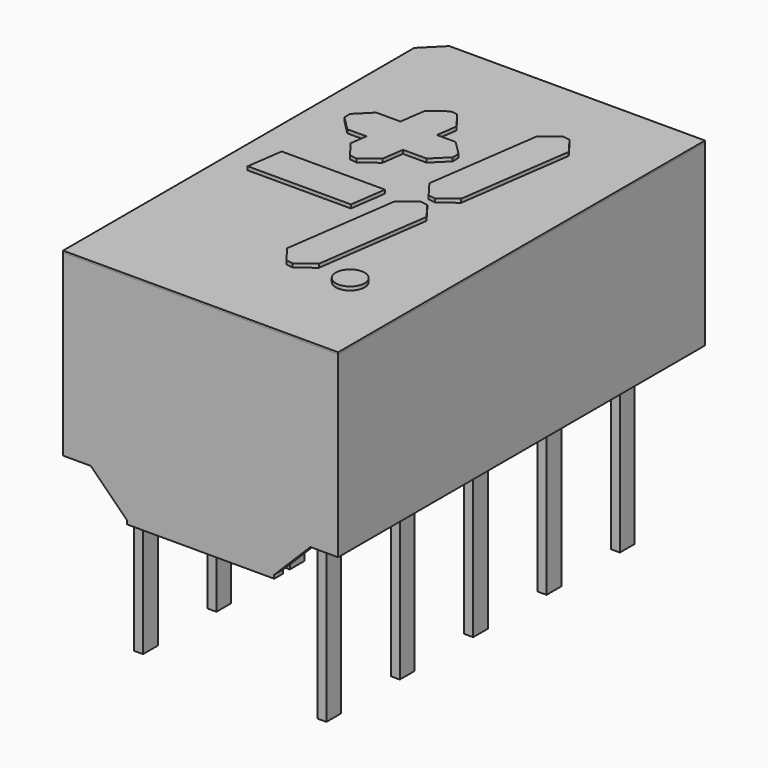
from build123d import *

# Parameters (mm, degrees)
BOX003_W                  = 0.25
BOX003_H                  = 1.5
BOX003_DEPTH              = 1.5
BOX003_ROLL_ANGLE         = 45
BOX002_W                  = 0.25
BOX002_H                  = 0.51
BOX002_DEPTH              = 6
BOX005_W                  = 0.25
BOX005_H                  = 1.5
BOX005_DEPTH              = 1.5
BOX005_ROLL_ANGLE         = 45
BOX004_W                  = 0.25
BOX004_H                  = 0.51
BOX004_DEPTH              = 6
BOX007_W                  = 0.25
BOX007_H                  = 1.5
BOX007_DEPTH              = 1.5
BOX007_ROLL_ANGLE         = 45
BOX006_W                  = 0.25
BOX006_H                  = 0.51
BOX006_DEPTH              = 6
BOX009_W                  = 0.25
BOX009_H                  = 1.5
BOX009_DEPTH              = 1.5
BOX009_ROLL_ANGLE         = 45
BOX008_W                  = 0.25
BOX008_H                  = 0.51
BOX008_DEPTH              = 6
BOX011_W                  = 0.25
BOX011_H                  = 1.5
BOX011_DEPTH              = 1.5
BOX011_ROLL_ANGLE         = 45
BOX010_W                  = 0.25
BOX010_H                  = 0.51
BOX010_DEPTH              = 6
BOX021_W                  = 0.25
BOX021_H                  = 1.5
BOX021_DEPTH              = 1.5
BOX021_ROLL_ANGLE         = 45
BOX020_W                  = 0.25
BOX020_H                  = 0.51
BOX020_DEPTH              = 6
BOX029_W                  = 0.25
BOX029_H                  = 1.5
BOX029_DEPTH              = 1.5
BOX029_ROLL_ANGLE         = 45
BOX028_W                  = 0.25
BOX028_H                  = 0.51
BOX028_DEPTH              = 6
BOX023_W                  = 0.25
BOX023_H                  = 1.5
BOX023_DEPTH              = 1.5
BOX023_ROLL_ANGLE         = 45
BOX022_W                  = 0.25
BOX022_H                  = 0.51
BOX022_DEPTH              = 6
BOX025_W                  = 0.25
BOX025_H                  = 1.5
BOX025_DEPTH              = 1.5
BOX025_ROLL_ANGLE         = 45
BOX024_W                  = 0.25
BOX024_H                  = 0.51
BOX024_DEPTH              = 6
BOX027_W                  = 0.25
BOX027_H                  = 1.5
BOX027_DEPTH              = 1.5
BOX027_ROLL_ANGLE         = 45
BOX026_W                  = 0.25
BOX026_H                  = 0.51
BOX026_DEPTH              = 6
BOX042_W                  = 2
BOX042_H                  = 1
BOX042_DEPTH              = 10
BOX042_PLACEMENT_ANGLE    = 45
BOX041_W                  = 3
BOX041_H                  = 22
BOX041_DEPTH              = 1.1
CHAMFER016_SIZE           = 1
BOX_W                     = 3
BOX_H                     = 22
BOX_DEPTH                 = 1.1
CHAMFER_SIZE              = 1
BOX001_W                  = 20
BOX001_H                  = 12
BOX001_DEPTH              = 1.1
SKETCH_W                  = 7.62
SKETCH_H                  = 12.7
PAD_DEPTH                 = 6.09
BOX032_W                  = 3
BOX032_H                  = 1
BOX032_DEPTH              = 2
BOX032_PLACEMENT_ANGLE    = -8
CHAMFER019_SIZE           = 0.4
BOX033_W                  = 4
BOX033_H                  = 1
BOX033_DEPTH              = 2
BOX033_PLACEMENT_ANGLE    = -8
CHAMFER006_SIZE           = 0.4
CHAMFER007_SIZE           = 0.4
CHAMFER020_SIZE           = 0.4
BOX043_W                  = 4
BOX043_H                  = 1
BOX043_DEPTH              = 2
BOX043_PLACEMENT_ANGLE    = -8
CHAMFER017_SIZE           = 0.4
CHAMFER018_SIZE           = 0.4
CHAMFER021_SIZE           = 0.4
BOX035_W                  = 3
BOX035_H                  = 3
BOX035_DEPTH              = 2
BOX035_PLACEMENT_ANGLE    = -8
BOX036_W                  = 3
BOX036_H                  = 1
BOX036_DEPTH              = 2
BOX036_PLACEMENT_ANGLE    = -8
BOX034_W                  = 1
BOX034_H                  = 4
BOX034_DEPTH              = 2
CYLINDER016_R             = 0.4
CYLINDER016_DEPTH         = 2
BOX037_W                  = 1
BOX037_H                  = 3
BOX037_DEPTH              = 2
CHAMFER012_SIZE           = 0.4
CHAMFER013_SIZE           = 0.4
CHAMFER014_SIZE           = 0.4
CHAMFER015_SIZE           = 0.4
FUSION014_PLACEMENT_ANGLE = 90
BOX045_W                  = 2
BOX045_H                  = 1
BOX045_DEPTH              = 10
BOX045_PLACEMENT_ANGLE    = 45
BOX044_W                  = 7.62
BOX044_H                  = 12.7
BOX044_DEPTH              = 0.05


with BuildPart() as kub003:
    # Box003 → Box003 (new body)
    with BuildSketch(Plane.XY):
        with Locations((0.125, 0.75)):
            Rectangle(BOX003_W, BOX003_H)
    extrude(amount=BOX003_DEPTH)


with BuildPart() as kub003_1:
    # Box003 roll: moved
    add(kub003.part.rotate(Axis((0, 0, 0), (1, 0, 0)), BOX003_ROLL_ANGLE))


with BuildPart() as kub003_2:
    # Box003 placement: moved
    add(kub003_1.part.moved(Location((-0.12, 0, 0.3))))


with BuildPart() as leg001:
    # Box002 → Box002 (new body)
    with BuildSketch(Plane(origin=(-0.12, -0.25, -3.7), x_dir=(1, 0, 0), z_dir=(0, 0, 1))):
        with Locations((0.125, 0.255)):
            Rectangle(BOX002_W, BOX002_H)
    extrude(amount=BOX002_DEPTH)

    # Fusion: union Kub003
    add(kub003_2.part)


with BuildPart() as kub005:
    # Box005 → Box005 (new body)
    with BuildSketch(Plane.XY):
        with Locations((0.125, 0.75)):
            Rectangle(BOX005_W, BOX005_H)
    extrude(amount=BOX005_DEPTH)


with BuildPart() as kub005_1:
    # Box005 roll: moved
    add(kub005.part.rotate(Axis((0, 0, 0), (1, 0, 0)), BOX005_ROLL_ANGLE))


with BuildPart() as kub005_2:
    # Box005 placement: moved
    add(kub005_1.part.moved(Location((-0.12, 0, 0.3))))


with BuildPart() as leg002:
    # Box004 → Box004 (new body)
    with BuildSketch(Plane(origin=(-0.12, -0.2505, -3.7), x_dir=(1, 0, 0), z_dir=(0, 0, 1))):
        with Locations((0.125, 0.255)):
            Rectangle(BOX004_W, BOX004_H)
    extrude(amount=BOX004_DEPTH)

    # Fusion001: union Kub005
    add(kub005_2.part)


with BuildPart() as leg002_1:
    # Fusion001 placement: moved
    add(leg002.part.moved(Location((0, -2.54, 0))))


with BuildPart() as kub007:
    # Box007 → Box007 (new body)
    with BuildSketch(Plane.XY):
        with Locations((0.125, 0.75)):
            Rectangle(BOX007_W, BOX007_H)
    extrude(amount=BOX007_DEPTH)


with BuildPart() as kub007_1:
    # Box007 roll: moved
    add(kub007.part.rotate(Axis((0, 0, 0), (1, 0, 0)), BOX007_ROLL_ANGLE))


with BuildPart() as kub007_2:
    # Box007 placement: moved
    add(kub007_1.part.moved(Location((-0.12, 0, 0.3))))


with BuildPart() as leg003:
    # Box006 → Box006 (new body)
    with BuildSketch(Plane(origin=(-0.12, -0.2505, -3.7), x_dir=(1, 0, 0), z_dir=(0, 0, 1))):
        with Locations((0.125, 0.255)):
            Rectangle(BOX006_W, BOX006_H)
    extrude(amount=BOX006_DEPTH)

    # Fusion002: union Kub007
    add(kub007_2.part)


with BuildPart() as leg003_1:
    # Fusion002 placement: moved
    add(leg003.part.moved(Location((0, -5.08, 0))))


with BuildPart() as kub009:
    # Box009 → Box009 (new body)
    with BuildSketch(Plane.XY):
        with Locations((0.125, 0.75)):
            Rectangle(BOX009_W, BOX009_H)
    extrude(amount=BOX009_DEPTH)


with BuildPart() as kub009_1:
    # Box009 roll: moved
    add(kub009.part.rotate(Axis((0, 0, 0), (1, 0, 0)), BOX009_ROLL_ANGLE))


with BuildPart() as kub009_2:
    # Box009 placement: moved
    add(kub009_1.part.moved(Location((-0.12, 0, 0.3))))


with BuildPart() as leg004:
    # Box008 → Box008 (new body)
    with BuildSketch(Plane(origin=(-0.12, -0.2505, -3.7), x_dir=(1, 0, 0), z_dir=(0, 0, 1))):
        with Locations((0.125, 0.255)):
            Rectangle(BOX008_W, BOX008_H)
    extrude(amount=BOX008_DEPTH)

    # Fusion003: union Kub009
    add(kub009_2.part)


with BuildPart() as leg004_1:
    # Fusion003 placement: moved
    add(leg004.part.moved(Location((0, -7.62, 0))))


with BuildPart() as kub011:
    # Box011 → Box011 (new body)
    with BuildSketch(Plane.XY):
        with Locations((0.125, 0.75)):
            Rectangle(BOX011_W, BOX011_H)
    extrude(amount=BOX011_DEPTH)


with BuildPart() as kub011_1:
    # Box011 roll: moved
    add(kub011.part.rotate(Axis((0, 0, 0), (1, 0, 0)), BOX011_ROLL_ANGLE))


with BuildPart() as kub011_2:
    # Box011 placement: moved
    add(kub011_1.part.moved(Location((-0.12, 0, 0.3))))


with BuildPart() as leg005:
    # Box010 → Box010 (new body)
    with BuildSketch(Plane(origin=(-0.12, -0.2505, -3.7), x_dir=(1, 0, 0), z_dir=(0, 0, 1))):
        with Locations((0.125, 0.255)):
            Rectangle(BOX010_W, BOX010_H)
    extrude(amount=BOX010_DEPTH)

    # Fusion004: union Kub011
    add(kub011_2.part)


with BuildPart() as leg005_1:
    # Fusion004 placement: moved
    add(leg005.part.moved(Location((0, -10.16, 0))))


with BuildPart() as kub021:
    # Box021 → Box021 (new body)
    with BuildSketch(Plane.XY):
        with Locations((0.125, 0.75)):
            Rectangle(BOX021_W, BOX021_H)
    extrude(amount=BOX021_DEPTH)


with BuildPart() as kub021_1:
    # Box021 roll: moved
    add(kub021.part.rotate(Axis((0, 0, 0), (1, 0, 0)), BOX021_ROLL_ANGLE))


with BuildPart() as kub021_2:
    # Box021 placement: moved
    add(kub021_1.part.moved(Location((-0.12, 0, 0.3))))


with BuildPart() as leg006:
    # Box020 → Box020 (new body)
    with BuildSketch(Plane(origin=(-0.12, -0.2505, -3.7), x_dir=(1, 0, 0), z_dir=(0, 0, 1))):
        with Locations((0.125, 0.255)):
            Rectangle(BOX020_W, BOX020_H)
    extrude(amount=BOX020_DEPTH)

    # Fusion009: union Kub021
    add(kub021_2.part)


with BuildPart() as leg006_1:
    # Fusion009 placement: moved
    add(leg006.part.moved(Location((5.08, -10.16, 0))))


with BuildPart() as kub029:
    # Box029 → Box029 (new body)
    with BuildSketch(Plane.XY):
        with Locations((0.125, 0.75)):
            Rectangle(BOX029_W, BOX029_H)
    extrude(amount=BOX029_DEPTH)


with BuildPart() as kub029_1:
    # Box029 roll: moved
    add(kub029.part.rotate(Axis((0, 0, 0), (1, 0, 0)), BOX029_ROLL_ANGLE))


with BuildPart() as kub029_2:
    # Box029 placement: moved
    add(kub029_1.part.moved(Location((-0.12, 0, 0.3))))


with BuildPart() as leg010:
    # Box028 → Box028 (new body)
    with BuildSketch(Plane(origin=(-0.12, -0.2505, -3.7), x_dir=(1, 0, 0), z_dir=(0, 0, 1))):
        with Locations((0.125, 0.255)):
            Rectangle(BOX028_W, BOX028_H)
    extrude(amount=BOX028_DEPTH)

    # Fusion013: union Kub029
    add(kub029_2.part)


with BuildPart() as leg010_1:
    # Fusion013 placement: moved
    add(leg010.part.moved(Location((5.08, 0, 0))))


with BuildPart() as kub023:
    # Box023 → Box023 (new body)
    with BuildSketch(Plane.XY):
        with Locations((0.125, 0.75)):
            Rectangle(BOX023_W, BOX023_H)
    extrude(amount=BOX023_DEPTH)


with BuildPart() as kub023_1:
    # Box023 roll: moved
    add(kub023.part.rotate(Axis((0, 0, 0), (1, 0, 0)), BOX023_ROLL_ANGLE))


with BuildPart() as kub023_2:
    # Box023 placement: moved
    add(kub023_1.part.moved(Location((-0.12, 0, 0.3))))


with BuildPart() as leg007:
    # Box022 → Box022 (new body)
    with BuildSketch(Plane(origin=(-0.12, -0.2505, -3.7), x_dir=(1, 0, 0), z_dir=(0, 0, 1))):
        with Locations((0.125, 0.255)):
            Rectangle(BOX022_W, BOX022_H)
    extrude(amount=BOX022_DEPTH)

    # Fusion010: union Kub023
    add(kub023_2.part)


with BuildPart() as leg007_1:
    # Fusion010 placement: moved
    add(leg007.part.moved(Location((5.08, -7.62, 0))))


with BuildPart() as kub025:
    # Box025 → Box025 (new body)
    with BuildSketch(Plane.XY):
        with Locations((0.125, 0.75)):
            Rectangle(BOX025_W, BOX025_H)
    extrude(amount=BOX025_DEPTH)


with BuildPart() as kub025_1:
    # Box025 roll: moved
    add(kub025.part.rotate(Axis((0, 0, 0), (1, 0, 0)), BOX025_ROLL_ANGLE))


with BuildPart() as kub025_2:
    # Box025 placement: moved
    add(kub025_1.part.moved(Location((-0.12, 0, 0.3))))


with BuildPart() as leg008:
    # Box024 → Box024 (new body)
    with BuildSketch(Plane(origin=(-0.12, -0.2505, -3.7), x_dir=(1, 0, 0), z_dir=(0, 0, 1))):
        with Locations((0.125, 0.255)):
            Rectangle(BOX024_W, BOX024_H)
    extrude(amount=BOX024_DEPTH)

    # Fusion011: union Kub025
    add(kub025_2.part)


with BuildPart() as leg008_1:
    # Fusion011 placement: moved
    add(leg008.part.moved(Location((5.08, -5.08, 0))))


with BuildPart() as kub027:
    # Box027 → Box027 (new body)
    with BuildSketch(Plane.XY):
        with Locations((0.125, 0.75)):
            Rectangle(BOX027_W, BOX027_H)
    extrude(amount=BOX027_DEPTH)


with BuildPart() as kub027_1:
    # Box027 roll: moved
    add(kub027.part.rotate(Axis((0, 0, 0), (1, 0, 0)), BOX027_ROLL_ANGLE))


with BuildPart() as kub027_2:
    # Box027 placement: moved
    add(kub027_1.part.moved(Location((-0.12, 0, 0.3))))


with BuildPart() as leg009:
    # Box026 → Box026 (new body)
    with BuildSketch(Plane(origin=(-0.12, -0.2505, -3.7), x_dir=(1, 0, 0), z_dir=(0, 0, 1))):
        with Locations((0.125, 0.255)):
            Rectangle(BOX026_W, BOX026_H)
    extrude(amount=BOX026_DEPTH)

    # Fusion012: union Kub027
    add(kub027_2.part)


with BuildPart() as leg009_1:
    # Fusion012 placement: moved
    add(leg009.part.moved(Location((5.08, -2.54, 0))))


with BuildPart() as kub042:
    # Box042 → Box042 (new body)
    with BuildSketch(Plane.XY):
        with Locations((1, 0.5)):
            Rectangle(BOX042_W, BOX042_H)
    extrude(amount=BOX042_DEPTH)


with BuildPart() as kub042_1:
    # Box042 placement: moved
    add(kub042.part.moved(Location((-1.5, 0.5, 0))).rotate(Axis((-1.5, 0.5, 0), (0, 0, 1)), BOX042_PLACEMENT_ANGLE))


with BuildPart() as chamfer016:
    # Box041 → Box041 (new body)
    with BuildSketch(Plane(origin=(-2.5, -18, 0), x_dir=(1, 0, 0), z_dir=(0, 0, 1))):
        with Locations((1.5, 11)):
            Rectangle(BOX041_W, BOX041_H)
    extrude(amount=BOX041_DEPTH)

    # Chamfer016
    chamfer016_edges = [chamfer016.edges().sort_by_distance(p)[0] for p in [
        (0.5, -7, 1.1),
    ]]
    chamfer(chamfer016_edges, length=CHAMFER016_SIZE)


with BuildPart() as chamfer_body:
    # Box → Box (new body)
    with BuildSketch(Plane(origin=(4.58, -19, 0), x_dir=(1, 0, 0), z_dir=(0, 0, 1))):
        with Locations((1.5, 11)):
            Rectangle(BOX_W, BOX_H)
    extrude(amount=BOX_DEPTH)

    # Chamfer
    chamfer_edges = [chamfer_body.edges().sort_by_distance(p)[0] for p in [
        (4.58, -8, 1.1),
    ]]
    chamfer(chamfer_edges, length=CHAMFER_SIZE)


with BuildPart() as kub001:
    # Box001 → Box001 (new body)
    with BuildSketch(Plane(origin=(-6, -11.12, 0), x_dir=(1, 0, 0), z_dir=(0, 0, 1))):
        with Locations((10, 6)):
            Rectangle(BOX001_W, BOX001_H)
    extrude(amount=BOX001_DEPTH)


with BuildPart() as main_body:
    # Sketch → Pad (new body)
    with BuildSketch(Plane.XY):
        with Locations((2.54, -5.08)):
            Rectangle(SKETCH_W, SKETCH_H)
    extrude(amount=PAD_DEPTH)

    # Cut: cut Kub001
    add(kub001.part, mode=Mode.SUBTRACT)

    # Cut006: cut Chamfer body
    add(chamfer_body.part, mode=Mode.SUBTRACT)

    # Cut007: cut Chamfer016
    add(chamfer016.part, mode=Mode.SUBTRACT)

    # Cut008: cut Kub042
    add(kub042_1.part, mode=Mode.SUBTRACT)


with BuildPart() as minus001:
    # Box032 → Box032 (new body)
    with BuildSketch(Plane.XY):
        with Locations((1.5, 0.5)):
            Rectangle(BOX032_W, BOX032_H)
    extrude(amount=BOX032_DEPTH)


with BuildPart() as minus001_1:
    # Box032 placement: moved
    add(minus001.part.moved(Location((5.7, 14.5, 0))).rotate(Axis((5.7, 14.5, 0), (0, 0, 1)), BOX032_PLACEMENT_ANGLE))

    # Chamfer019
    chamfer019_edges = [minus001_1.edges().sort_by_distance(p)[0] for p in [
        (5.7, 14.5, 1),
        (5.839173, 15.490268, 1),
        (8.670804, 14.082481, 1),
        (8.809977, 15.072749, 1),
    ]]
    chamfer(chamfer019_edges, length=CHAMFER019_SIZE)


with BuildPart() as righttop:
    # Box033 → Box033 (new body)
    with BuildSketch(Plane.XY):
        with Locations((2, 0.5)):
            Rectangle(BOX033_W, BOX033_H)
    extrude(amount=BOX033_DEPTH)


with BuildPart() as righttop_1:
    # Box033 placement: moved
    add(righttop.part.moved(Location((9, 13, 0))).rotate(Axis((9, 13, 0), (0, 0, 1)), BOX033_PLACEMENT_ANGLE))

    # Chamfer006
    chamfer006_edges = [righttop_1.edges().sort_by_distance(p)[0] for p in [
        (9.139173, 13.990268, 1),
    ]]
    chamfer(chamfer006_edges, length=CHAMFER006_SIZE)

    # Chamfer007
    chamfer007_edges = [righttop_1.edges().sort_by_distance(p)[0] for p in [
        (9, 13, 1),
    ]]
    chamfer(chamfer007_edges, length=CHAMFER007_SIZE)


with BuildPart() as righttop_2:
    # Chamfer007 placement: moved
    add(righttop_1.part.moved(Location((-3.7, -1, 0))))

    # Chamfer020
    chamfer020_edges = [righttop_2.edges().sort_by_distance(p)[0] for p in [
        (9.261072, 11.443308, 1),
        (9.400245, 12.433576, 1),
    ]]
    chamfer(chamfer020_edges, length=CHAMFER020_SIZE)


with BuildPart() as rightbottom:
    # Box043 → Box043 (new body)
    with BuildSketch(Plane.XY):
        with Locations((2, 0.5)):
            Rectangle(BOX043_W, BOX043_H)
    extrude(amount=BOX043_DEPTH)


with BuildPart() as rightbottom_1:
    # Box043 placement: moved
    add(rightbottom.part.moved(Location((0, 18, 0))).rotate(Axis((0, 18, 0), (0, 0, 1)), BOX043_PLACEMENT_ANGLE))

    # Chamfer017
    chamfer017_edges = [rightbottom_1.edges().sort_by_distance(p)[0] for p in [
        (3.961072, 17.443308, 1),
    ]]
    chamfer(chamfer017_edges, length=CHAMFER017_SIZE)

    # Chamfer018
    chamfer018_edges = [rightbottom_1.edges().sort_by_distance(p)[0] for p in [
        (4.100245, 18.433576, 1),
    ]]
    chamfer(chamfer018_edges, length=CHAMFER018_SIZE)

    # Chamfer021
    chamfer021_edges = [rightbottom_1.edges().sort_by_distance(p)[0] for p in [
        (0.139173, 18.990268, 1),
        (0, 18, 1),
    ]]
    chamfer(chamfer021_edges, length=CHAMFER021_SIZE)


with BuildPart() as rightbottom_2:
    # Chamfer021 placement: moved
    add(rightbottom_1.part.moved(Location((1, -5.5, 0))))


with BuildPart() as kub035:
    # Box035 → Box035 (new body)
    with BuildSketch(Plane.XY):
        with Locations((1.5, 1.5)):
            Rectangle(BOX035_W, BOX035_H)
    extrude(amount=BOX035_DEPTH)


with BuildPart() as kub035_1:
    # Box035 placement: moved
    add(kub035.part.moved(Location((-4, 17.14, 0))).rotate(Axis((-4, 17.14, 0), (0, 0, 1)), BOX035_PLACEMENT_ANGLE))


with BuildPart() as kub036:
    # Box036 → Box036 (new body)
    with BuildSketch(Plane.XY):
        with Locations((1.5, 0.5)):
            Rectangle(BOX036_W, BOX036_H)
    extrude(amount=BOX036_DEPTH)


with BuildPart() as kub036_1:
    # Box036 placement: moved
    add(kub036.part.moved(Location((-4, 13.27, 0))).rotate(Axis((-4, 13.27, 0), (0, 0, 1)), BOX036_PLACEMENT_ANGLE))


with BuildPart() as minus:
    # Box034 → Box034 (new body)
    with BuildSketch(Plane(origin=(-3, 14, 0), x_dir=(1, 0, 0), z_dir=(0, 0, 1))):
        with Locations((0.5, 2)):
            Rectangle(BOX034_W, BOX034_H)
    extrude(amount=BOX034_DEPTH)

    # Cut002: cut Kub036
    add(kub036_1.part, mode=Mode.SUBTRACT)

    # Cut003: cut Kub035
    add(kub035_1.part, mode=Mode.SUBTRACT)


with BuildPart() as minus_1:
    # Cut003 placement: moved
    add(minus.part.moved(Location((7, -0.5, 0))))


with BuildPart() as dot:
    # Cylinder016 → Cylinder016 (new body)
    with BuildSketch(Plane(origin=(1.3, 11.5, 0), x_dir=(1, 0, 0), z_dir=(0, 0, 1))):
        Circle(CYLINDER016_R)
    extrude(amount=CYLINDER016_DEPTH)


with BuildPart() as digit:
    # Box037 → Box037 (new body)
    with BuildSketch(Plane(origin=(-10, 14, 0), x_dir=(1, 0, 0), z_dir=(0, 0, 1))):
        with Locations((0.5, 1.5)):
            Rectangle(BOX037_W, BOX037_H)
    extrude(amount=BOX037_DEPTH)

    # Chamfer012
    chamfer012_edges = [digit.edges().sort_by_distance(p)[0] for p in [
        (-9, 14, 1),
    ]]
    chamfer(chamfer012_edges, length=CHAMFER012_SIZE)

    # Chamfer013
    chamfer013_edges = [digit.edges().sort_by_distance(p)[0] for p in [
        (-9, 17, 1),
    ]]
    chamfer(chamfer013_edges, length=CHAMFER013_SIZE)

    # Chamfer014
    chamfer014_edges = [digit.edges().sort_by_distance(p)[0] for p in [
        (-10, 14, 1),
    ]]
    chamfer(chamfer014_edges, length=CHAMFER014_SIZE)

    # Chamfer015
    chamfer015_edges = [digit.edges().sort_by_distance(p)[0] for p in [
        (-10, 17, 1),
    ]]
    chamfer(chamfer015_edges, length=CHAMFER015_SIZE)


with BuildPart() as digit_1:
    # Chamfer015 placement: moved
    add(digit.part.moved(Location((16.7, -0.7, 0))))

    # Fusion014: union Minus001, RightTop, RightBottom, Minus, Dot
    add(minus001_1.part)
    add(righttop_2.part)
    add(rightbottom_2.part)
    add(minus_1.part)
    add(dot.part)


with BuildPart() as digit_2:
    # Fusion014 placement: moved
    add(digit_1.part.moved(Location((16, -10, 4.2))).rotate(Axis((16, -10, 4.2), (0, 0, 1)), FUSION014_PLACEMENT_ANGLE))


with BuildPart() as kub044:
    # Box045 → Box045 (new body)
    with BuildSketch(Plane.XY):
        with Locations((1, 0.5)):
            Rectangle(BOX045_W, BOX045_H)
    extrude(amount=BOX045_DEPTH)


with BuildPart() as kub044_1:
    # Box045 placement: moved
    add(kub044.part.moved(Location((-1.5, 0.5, 0))).rotate(Axis((-1.5, 0.5, 0), (0, 0, 1)), BOX045_PLACEMENT_ANGLE))


with BuildPart() as top:
    # Box044 → Box044 (new body)
    with BuildSketch(Plane(origin=(-1.27, -11.43, 6.05), x_dir=(1, 0, 0), z_dir=(0, 0, 1))):
        with Locations((3.81, 6.35)):
            Rectangle(BOX044_W, BOX044_H)
    extrude(amount=BOX044_DEPTH)

    # Cut009: cut Kub044
    add(kub044_1.part, mode=Mode.SUBTRACT)


solid = Compound([leg001.part, leg002_1.part, leg003_1.part, leg004_1.part, leg005_1.part, leg006_1.part, leg010_1.part, leg007_1.part, leg008_1.part, leg009_1.part, main_body.part, digit_2.part, top.part])
